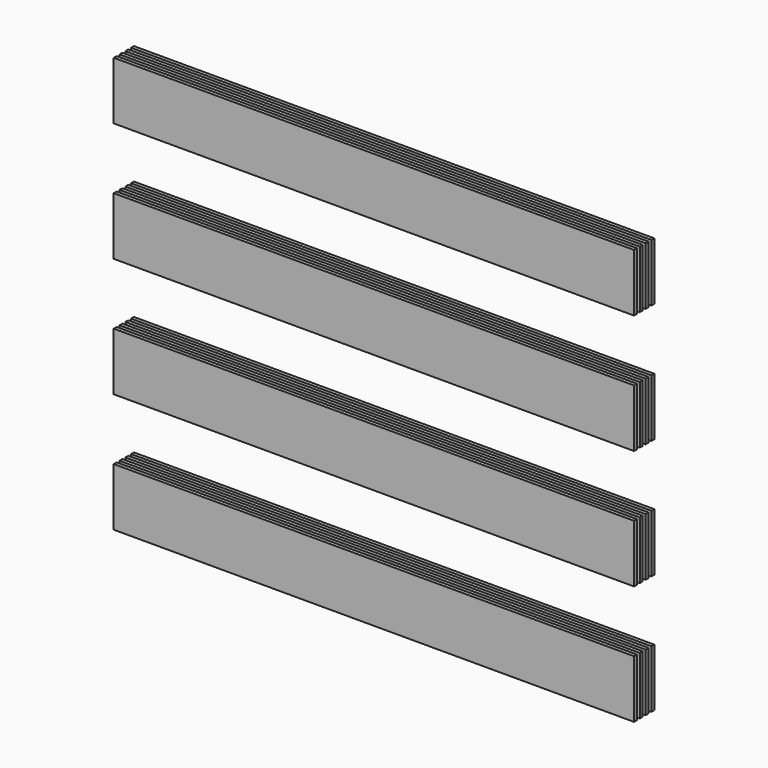
from build123d import *

# Parameters (mm, degrees)
F0_W     = 6.35
F0_H     = 101.6
F1_DEPTH = 457.2


with BuildPart() as f1:
    # F0 (on Right) → F1 (new body, symmetric)
    with BuildSketch(Plane.YZ):
        with Locations((3.175, 50.8)):
            Rectangle(F0_W, F0_H)
        with Locations((3.175, -158.75)):
            Rectangle(F0_W, F0_H)
        with Locations((3.175, -368.3)):
            Rectangle(F0_W, F0_H)
        with Locations((3.175, -577.85)):
            Rectangle(F0_W, F0_H)
        with Locations((15.875, 50.8)):
            Rectangle(F0_W, F0_H)
        with Locations((15.875, -158.75)):
            Rectangle(F0_W, F0_H)
        with Locations((15.875, -368.3)):
            Rectangle(F0_W, F0_H)
        with Locations((15.875, -577.85)):
            Rectangle(F0_W, F0_H)
        with Locations((28.575, 50.8)):
            Rectangle(F0_W, F0_H)
        with Locations((28.575, -158.75)):
            Rectangle(F0_W, F0_H)
        with Locations((28.575, -368.3)):
            Rectangle(F0_W, F0_H)
        with Locations((28.575, -577.85)):
            Rectangle(F0_W, F0_H)
        with Locations((41.275, 50.8)):
            Rectangle(F0_W, F0_H)
        with Locations((41.275, -158.75)):
            Rectangle(F0_W, F0_H)
        with Locations((41.275, -368.3)):
            Rectangle(F0_W, F0_H)
        with Locations((41.275, -577.85)):
            Rectangle(F0_W, F0_H)
    extrude(amount=F1_DEPTH, both=True)


solid = f1.part
